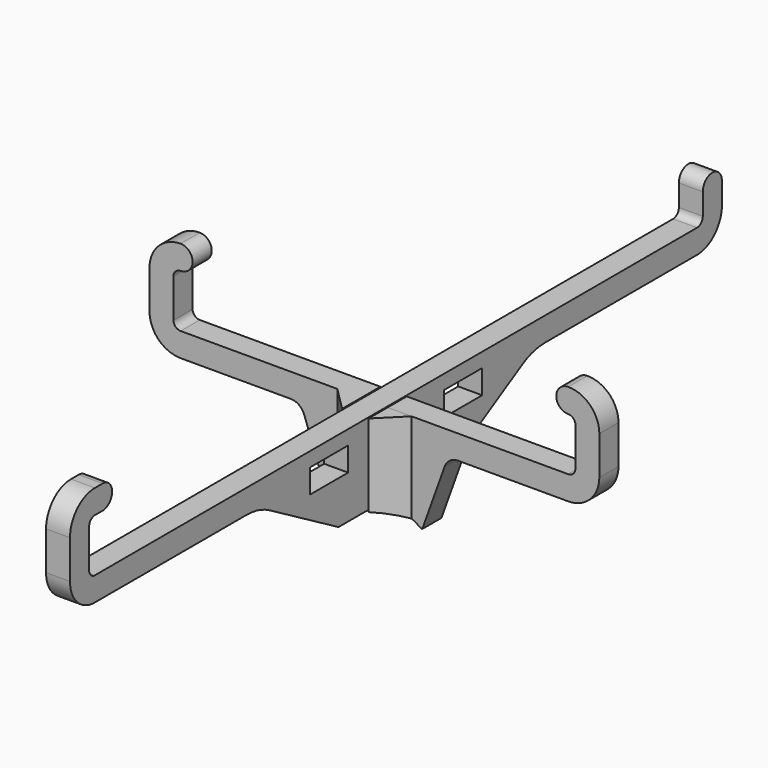
from build123d import *

# Parameters (mm, degrees)
SKETCH_W     = 10
SKETCH_H     = 5
PAD_DEPTH    = 2.5
PAD001_DEPTH = 2.5
PAD002_DEPTH = 20
POCKET_DEPTH = 10


with BuildPart() as vertical:
    # Sketch → Pad (new body, symmetric)
    with BuildSketch(Plane.YZ):
        with BuildLine():
            Line((85.13, 18.499999), (85.13, 23.000005))
            ThreePointArc((85.13, 23.000005), (82.629997, 25.500005), (80.13, 23))
            Line((80.13, 18.500007), (80.13, 23))
            ThreePointArc((78.630003, 17), (79.690664, 17.439343), (80.13, 18.500007))
            Line((-78.630002, 17), (78.630003, 17))
            ThreePointArc((-80.13, 18.500007), (-79.690663, 17.439343), (-78.630002, 17))
            Line((-80.13, 26.559992), (-80.13, 18.500007))
            ThreePointArc((-78.630002, 28.06), (-79.690664, 27.620657), (-80.13, 26.559992))
            Line((-78.630002, 28.06), (-76.630002, 28.06))
            ThreePointArc((-76.630002, 28.06), (-74.130001, 30.56), (-76.630001, 33.06))
            Line((-76.630001, 33.06), (-78.63, 33.06))
            ThreePointArc((-78.63, 33.06), (-83.226194, 31.156194), (-85.13, 26.56))
            Line((-85.13, 18.500007), (-85.13, 26.56))
            ThreePointArc((-85.13, 18.500007), (-83.226197, 13.903808), (-78.63, 12))
            Line((-78.63, 12), (-38.959283, 12))
            ThreePointArc((-33, 10.392302), (-35.873115, 11.591017), (-38.959283, 12))
            Line((-15, 0), (-33, 10.392302))
            Line((-15, 0), (-2.75, 0))
            Line((-2.75, 0), (-2.75, 8.7))
            Line((-2.75, 8.7), (2.75, 8.7))
            Line((2.75, 8.7), (2.75, 0))
            Line((2.75, 0), (15, 0))
            Line((15, 0), (33, 10.392302))
            ThreePointArc((38.959283, 12), (35.873115, 11.591017), (33, 10.392302))
            Line((38.959283, 12), (78.63, 12))
            ThreePointArc((78.63, 12), (83.226194, 13.903806), (85.13, 18.499999))
        make_face()
        with Locations((-17.5, 11.5)):
            Rectangle(SKETCH_W, SKETCH_H, mode=Mode.SUBTRACT)
        with Locations((17.5, 11.5)):
            Rectangle(SKETCH_W, SKETCH_H, mode=Mode.SUBTRACT)
    extrude(amount=PAD_DEPTH, both=True)


with BuildPart() as fusion:
    # Sketch001 → Pad001 (new body, symmetric)
    with BuildSketch(Plane.XZ):
        with BuildLine():
            Line((17.5, 11.999987), (40.490006, 12))
            ThreePointArc((40.490006, 12), (45.086195, 13.903807), (46.99, 18.499998))
            Line((46.99, 26.559977), (46.99, 18.499998))
            ThreePointArc((46.99, 26.559977), (45.086194, 31.156169), (40.490002, 33.059975))
            ThreePointArc((40.490002, 33.059975), (37.990002, 30.559975), (40.490002, 28.059975))
            ThreePointArc((41.99, 26.559977), (41.55066, 27.620635), (40.490002, 28.059975))
            Line((41.99, 18.499998), (41.99, 26.559977))
            ThreePointArc((40.490002, 17), (41.55066, 17.43934), (41.99, 18.499998))
            Line((2.75, 17), (40.490002, 17))
            Line((2.75, 8.3), (2.75, 17))
            Line((-2.75, 8.3), (2.75, 8.3))
            Line((-2.75, 16.999987), (-2.75, 8.3))
            Line((-40.49, 16.999987), (-2.75, 16.999987))
            ThreePointArc((-41.99, 18.499998), (-41.550664, 17.43933), (-40.49, 16.999987))
            Line((-41.99, 18.499998), (-41.99, 26.559977))
            ThreePointArc((-40.490001, 28.059987), (-41.550664, 27.620643), (-41.99, 26.559977))
            ThreePointArc((-40.490001, 28.059987), (-37.990001, 30.559987), (-40.490001, 33.059987))
            ThreePointArc((-40.490001, 33.059987), (-45.086198, 31.156177), (-46.99, 26.559976))
            Line((-46.99, 26.559976), (-46.99, 18.499999))
            ThreePointArc((-46.99, 18.499999), (-45.086199, 13.903798), (-40.490002, 11.999987))
            Line((-40.490002, 11.999987), (-17.5, 11.999987))
            ThreePointArc((-14.676752, 10.014518), (-15.774253, 11.453922), (-17.5, 11.999987))
            Line((-14.676752, 10.014518), (-10, -3))
            Line((-10, -3), (10, -3))
            Line((10, -3), (14.676754, 10.014518))
            ThreePointArc((17.5, 11.999987), (15.774254, 11.453921), (14.676754, 10.014518))
        make_face()
    extrude(amount=PAD001_DEPTH, both=True)

    # Sketch002 → Pad002 (new body)
    with BuildSketch(Plane(origin=(0, 0, 16.999987), x_dir=(-1, 0, 0), z_dir=(0, 0, 1))):
        Polygon((-7.75, 2.5), (-2.75, 7.5), (-2.75, 2.5), align=None)
        Polygon((2.75, 7.5), (2.75, 2.5), (7.75, 2.5), align=None)
    extrude(amount=-PAD002_DEPTH)

    # Sketch003 → Pocket (cut)
    with BuildSketch(Plane(origin=(0, 2.5, 0), x_dir=(1, 0, 0), z_dir=(0, 1, 0))):
        with BuildLine():
            ThreePointArc((-10, 3.138593), (0, 0), (10, 3.138593))
            Line((-10, 3.138593), (10, 3.138593))
        make_face()
    extrude(amount=-POCKET_DEPTH, mode=Mode.SUBTRACT)

    # Fusion: union Vertical
    add(vertical.part)


solid = fusion.part
